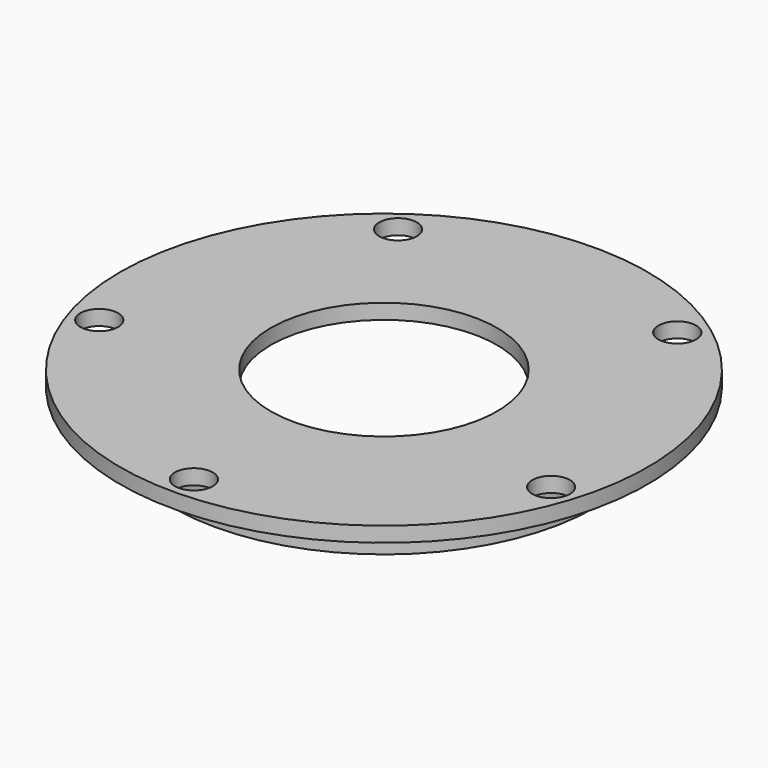
from build123d import *

# Parameters (mm, degrees)
F3_D     = 5
F3_DEPTH = 2
F3_TIP   = 1.5021515476


with BuildPart() as f1:
    # F0 (on Front) → F1 (revolve)
    with BuildSketch(Plane.XZ):
        Polygon((-15, 2), (-35, 2), (-35, 0), (-28, 0), (-28, -5), (-26, -5), (-26, 0), (-15, 0), align=None)
    revolve(axis=Axis((0, 0, -1.2891339905), (0, 0, -1)))

    # F3
    with Locations(Plane(origin=(0, 0, 0), x_dir=(1, 0, 0), z_dir=(0, 0, -1))):
        with Locations((0, 31.5), (-29.9582802633, 9.7340353228), (-18.5152354472, -25.4840353228), (18.5152354472, -25.4840353228), (29.9582802633, 9.7340353228)):
            Hole(F3_D / 2, depth=F3_DEPTH)
            with Locations((0, 0, -(F3_DEPTH + F3_TIP / 2))):  # 118° drill point
                Cone(0, F3_D / 2, F3_TIP, mode=Mode.SUBTRACT)


solid = f1.part
